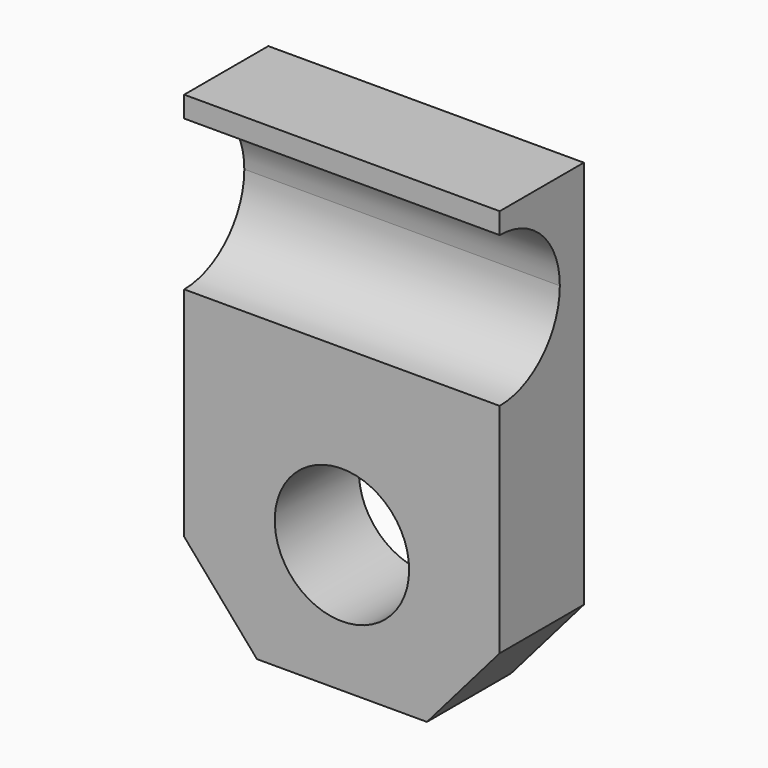
from build123d import *

# Parameters (mm, degrees)
F0_W      = 38.1
F0_H      = 57.15
F1_DEPTH  = 12.7
F3_DEPTH  = 25.4
F7_DEPTH  = 101.6
F9_DEPTH  = 2.54
F10_R     = 8.114992
F11_DEPTH = 25.4


with BuildPart() as f1:
    # F0 (on Front) → F1 (new body)
    with BuildSketch(Plane.XZ):
        Rectangle(F0_W, F0_H)
    extrude(amount=F1_DEPTH)

    # F2 (on face) → F3 (cut)
    with BuildSketch(Plane.XZ.offset(12.7)):
        Polygon((19.05, -18.421547), (10.264741, -28.575), (19.05, -28.575), align=None)
        Polygon((-19.05, -28.575), (-10.264741, -28.575), (-19.05, -18.421547), align=None)
    extrude(amount=-F3_DEPTH, mode=Mode.SUBTRACT)

    # F5 (on face) → F7 (cut)
    with BuildSketch(Plane.YZ.offset(19.05)):
        with BuildLine():
            ThreePointArc((-12.7, 7.877494), (-6.281125, 10.536279), (-3.62234, 16.955154))
            ThreePointArc((-3.62234, 16.955154), (-6.281125, 23.374029), (-12.7, 26.032814))
            Line((-12.7, 26.032814), (-12.7, 7.877494))
        make_face()
        with BuildLine():
            Line((-12.7, 7.877494), (-12.7, 26.032814))
            ThreePointArc((-12.7, 26.032814), (-21.77766, 16.955154), (-12.7, 7.877494))
        make_face()
    extrude(amount=-F7_DEPTH, mode=Mode.SUBTRACT)

    # F8 (on face) → F9 (join)
    with BuildSketch(Plane(origin=(0, 0, 0), x_dir=(-1, 0, 0), z_dir=(0, 1, 0))):
        Polygon((-19.05, 28.575), (-19.05, -18.421547), (-10.264741, -28.575), (10.264741, -28.575), (19.05, -18.421547), (19.05, 28.575), align=None)
    extrude(amount=-F9_DEPTH)

    # F10 (on face) → F11 (cut)
    with BuildSketch(Plane.XZ.offset(12.7)):
        with Locations((0, -13.105877)):
            Circle(F10_R)
    extrude(amount=-F11_DEPTH, mode=Mode.SUBTRACT)


solid = f1.part
